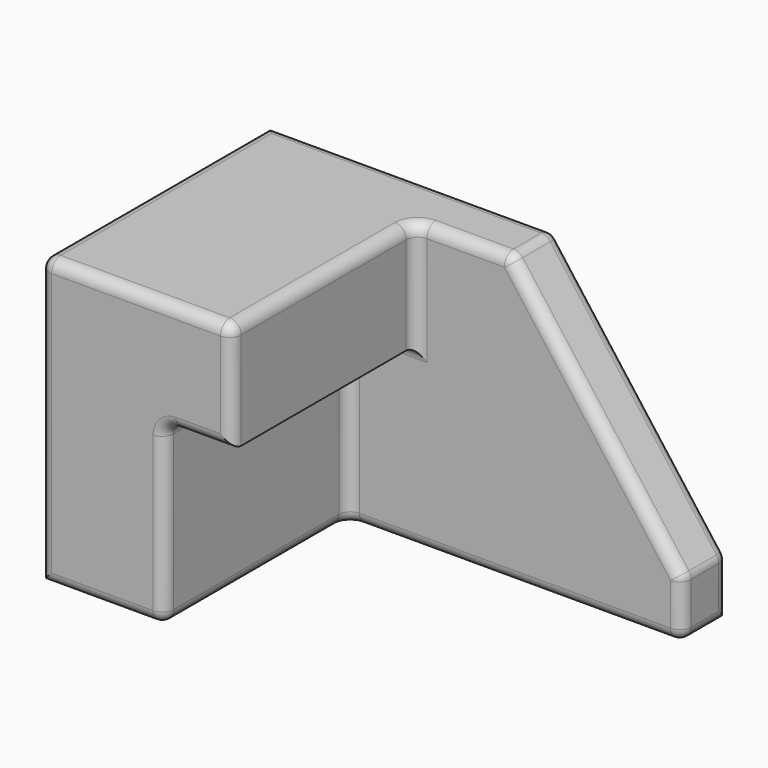
from build123d import *

# Parameters (mm, degrees)
F0_W     = 203.2
F0_H     = 127
F1_DEPTH = 127
F3_DEPTH = 101.6
F4_SIZE2 = 101.6
F4_SIZE  = 76.2
F5_R     = 5.08


with BuildPart() as f1:
    # F0 (on Front) → F1 (new body)
    with BuildSketch(Plane.XZ):
        with Locations((-38.8936437666, -15.1942830797)):
            Rectangle(F0_W, F0_H)
    extrude(amount=F1_DEPTH)

    # F2 (on face) → F3 (cut)
    with BuildSketch(Plane.XZ.offset(127)):
        Polygon((62.7063562334, 48.3057169203), (-55.4564334452, 48.3057169203), (-55.4564334452, 0), (-85.3614583611, 0), (-85.3614583611, -78.6942830797), (62.7063562334, -78.6942830797), align=None)
    extrude(amount=-F3_DEPTH, mode=Mode.SUBTRACT)

    # F4
    f4_edges = [f1.edges().sort_by_distance(p)[0] for p in [
        (62.706356, -12.7, 48.305717),
    ]]
    f4_side = f1.faces().sort_by_distance((-75.879953, -52.452457, 48.305717))[0]
    chamfer(f4_edges, length=F4_SIZE, length2=F4_SIZE2, reference=f4_side)

    # F5
    f5_edges = [f1.edges().sort_by_distance(p)[0] for p in [
        (-55.456433, -76.2, 48.305717),
        (-34.475039, -25.4, 48.305717),
        (-13.493644, -12.7, 48.305717),
        (62.706356, -12.7, -53.294283),
        (24.606356, -25.4, -2.494283),
        (24.606356, 0, -2.494283),
        (62.706356, -25.4, -65.994283),
        (62.706356, -12.7, -78.694283),
        (62.706356, 0, -65.994283),
        (-55.456433, -25.4, 24.152858),
        (-70.408946, -25.4, 0),
        (-11.327551, -25.4, -78.694283),
        (-85.361458, -25.4, -39.347142),
        (-85.361458, -76.2, 0),
        (-85.361458, -76.2, -78.694283),
        (-85.361458, -127, -39.347142),
        (-97.975039, -127, 48.305717),
        (-55.456433, -127, 24.152858),
        (-70.408946, -127, 0),
        (-112.927551, -127, -78.694283),
        (-140.493644, -127, -15.194283),
        (-76.993644, 0, 48.305717),
        (-140.493644, -63.5, 48.305717),
    ]]
    fillet(f5_edges, radius=F5_R)


solid = f1.part
